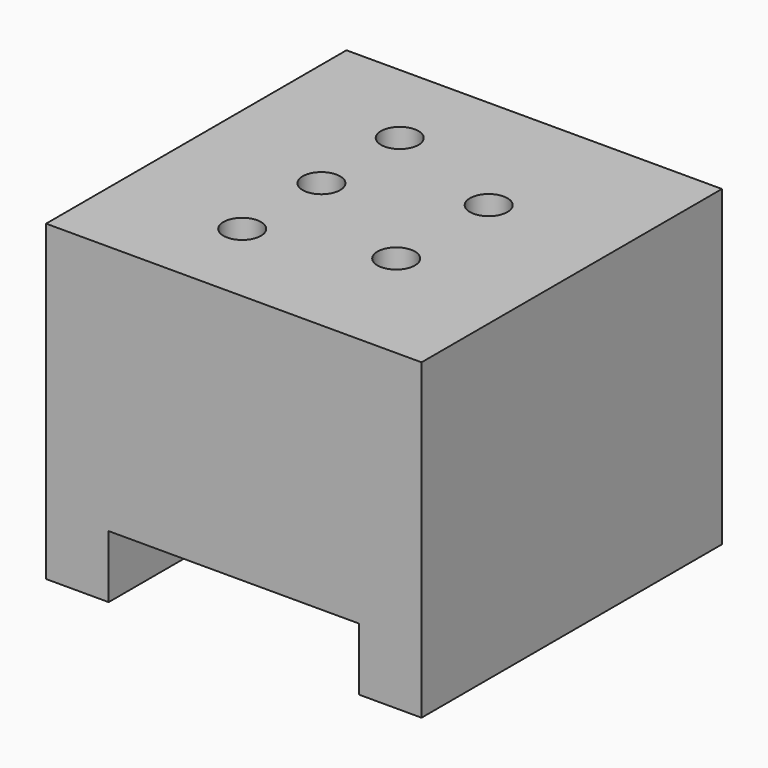
from build123d import *

# Parameters (mm, degrees)
F0_R     = 3.5
F0_R_2   = 1.5
F1_DEPTH = 20
F2_W     = 5
F2_H     = 30
F3_DEPTH = 5


with BuildPart() as f1:
    # F0 (on Top) → F1 (new body)
    with BuildSketch(Plane.XY):
        Polygon((-10, 15), (-15, 15), (-15, -15), (-10, -15), (10, -15), (15, -15), (15, 15), (10, 15), align=None)
        with Locations((-5, -7.9105878249)):
            Circle(F0_R, mode=Mode.SUBTRACT)
        with Locations((5, -5.0300965086)):
            Circle(F0_R, mode=Mode.SUBTRACT)
        with Locations((-5, 0)):
            Circle(F0_R, mode=Mode.SUBTRACT)
        with Locations((-5, 7.8226719052)):
            Circle(F0_R, mode=Mode.SUBTRACT)
        with Locations((5, 4.2056075387)):
            Circle(F0_R, mode=Mode.SUBTRACT)
        with Locations((5, 4.2056075387)):
            Circle(F0_R)
        with Locations((5, 4.2056075387)):
            Circle(F0_R_2, mode=Mode.SUBTRACT)
        with Locations((-5, 7.8226719052)):
            Circle(F0_R)
        with Locations((-5, 7.8226719052)):
            Circle(F0_R_2, mode=Mode.SUBTRACT)
        with Locations((-5, 0)):
            Circle(F0_R)
        with Locations((-5, 0)):
            Circle(F0_R_2, mode=Mode.SUBTRACT)
        with Locations((-5, -7.9105878249)):
            Circle(F0_R)
        with Locations((-5, -7.9105878249)):
            Circle(F0_R_2, mode=Mode.SUBTRACT)
        with Locations((5, -5.0300965086)):
            Circle(F0_R)
        with Locations((5, -5.0300965086)):
            Circle(F0_R_2, mode=Mode.SUBTRACT)
    extrude(amount=F1_DEPTH)

    # F2 (on face) → F3 (join)
    with BuildSketch(Plane(origin=(0, 0, 0), x_dir=(1, 0, 0), z_dir=(0, 0, -1))):
        with Locations((12.5, 0)):
            Rectangle(F2_W, F2_H)
        with Locations((-12.5, 0)):
            Rectangle(F2_W, F2_H)
    extrude(amount=F3_DEPTH)


solid = f1.part
